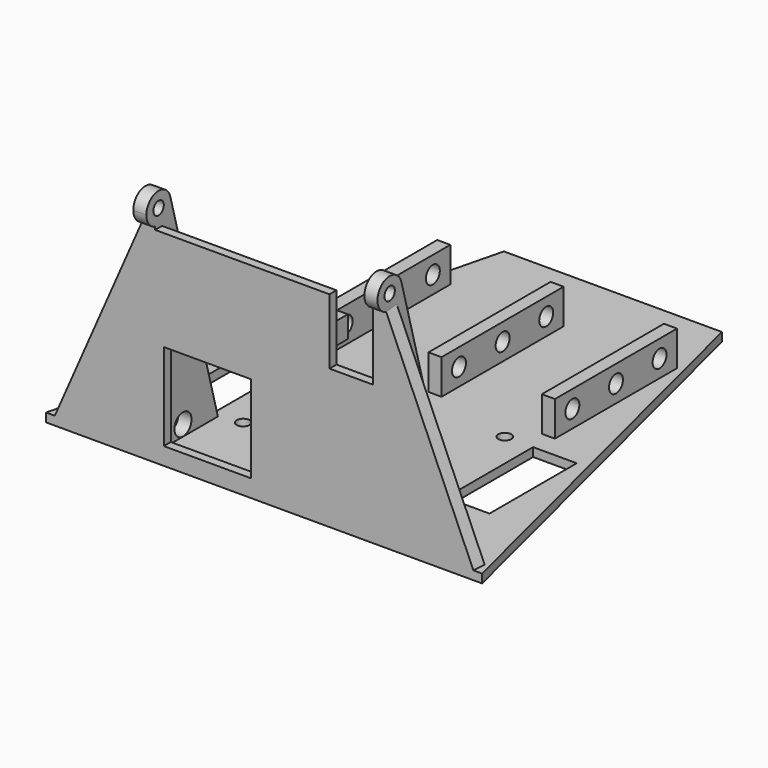
from build123d import *

# Parameters (mm, degrees)
F0_W      = 50
F0_H      = 100
F1_DEPTH  = 2
F2_W      = 2
F2_H      = 47
F3_DEPTH  = 28
F5_DEPTH  = 3
F7_DEPTH  = 3
F8_R      = 1.5
F9_DEPTH  = 60
F10_W     = 5
F10_H     = 5
F11_DEPTH = 12
F12_R     = 1
F13_DEPTH = 25
F14_R     = 1
F15_DEPTH = 25
F16_W     = 10
F16_H     = 15
F16_W_2   = 20
F16_H_2   = 20
F17_DEPTH = 25
F18_R     = 1.5
F18_W     = 10
F18_H     = 25
F19_DEPTH = 25
F20_W     = 3
F20_H     = 35
F21_DEPTH = 8
F22_R     = 2
F23_DEPTH = 100
F25_DEPTH = 3
F25_TAPER = -3
F27_DEPTH = 3
F28_R     = 2.45
F29_DEPTH = 3


with BuildPart() as f1:
    # F0 (on Top) → F1 (new body)
    with BuildSketch(Plane.XY):
        Polygon((25, 50), (25, -50), (50, -50), align=None)
        Polygon((-50, -50), (-25, -50), (-25, 50), align=None)
        Rectangle(F0_W, F0_H)
    extrude(amount=F1_DEPTH)

    # F2 (on Right) → F3 (join, symmetric)
    with BuildSketch(Plane.YZ):
        with Locations((-49, 23.5)):
            Rectangle(F2_W, F2_H)
    extrude(amount=F3_DEPTH, both=True)

    # F4 (on face) → F5 (join)
    with BuildSketch(Plane.YZ.offset(28)):
        with BuildLine():
            ThreePointArc((-48, 47.6458980338), (-49, 47.5), (-50, 47.6458980338))
            Line((-50, 47.6458980338), (-50, 47))
            Line((-50, 47), (-48, 47))
            Line((-48, 47), (-48, 47.6458980338))
        make_face()
        with BuildLine():
            ThreePointArc((-48, 47.6458980338), (-46.1937569599, 48.9083499337), (-45.5, 51))
            ThreePointArc((-45.5, 51), (-51.0916500663, 53.8062430401), (-50, 47.6458980338))
            ThreePointArc((-50, 47.6458980338), (-49, 47.5), (-48, 47.6458980338))
        make_face()
    extrude(amount=-F5_DEPTH)

    # F6 (on face) → F7 (join)
    with BuildSketch(Plane(origin=(-28, 0, 0), x_dir=(0, -1, 0), z_dir=(-1, 0, 0))):
        with BuildLine():
            ThreePointArc((50, 47.6458980338), (49, 47.5), (48, 47.6458980338))
            Line((48, 47.6458980338), (48, 47))
            Line((48, 47), (50, 47))
            Line((50, 47), (50, 47.6458980338))
        make_face()
        with BuildLine():
            ThreePointArc((50, 47.6458980338), (51.8062430401, 48.9083499337), (52.5, 51))
            ThreePointArc((52.5, 51), (46.9083499337, 53.8062430401), (48, 47.6458980338))
            ThreePointArc((48, 47.6458980338), (49, 47.5), (50, 47.6458980338))
        make_face()
    extrude(amount=-F7_DEPTH)

    # F8 (on face) → F9 (cut)
    with BuildSketch(Plane(origin=(-28, 0, 0), x_dir=(0, -1, 0), z_dir=(-1, 0, 0))):
        with Locations((49, 51)):
            Circle(F8_R)
    extrude(amount=-F9_DEPTH, mode=Mode.SUBTRACT)

    # F10 (on face) → F11 (join)
    with BuildSketch(Plane(origin=(0, -48, 0), x_dir=(-1, 0, 0), z_dir=(0, 1, 0))):
        with Locations((-5.5, 32.5)):
            Rectangle(F10_W, F10_H)
        with Locations((-5.5, 4.5)):
            Rectangle(F10_W, F10_H)
    extrude(amount=F11_DEPTH)

    # F12 (on face) → F13 (cut)
    with BuildSketch(Plane(origin=(3, 0, 0), x_dir=(0, -1, 0), z_dir=(-1, 0, 0))):
        with Locations((42, 4.5)):
            Circle(F12_R)
    extrude(amount=-F13_DEPTH, mode=Mode.SUBTRACT)

    # F14 (on face) → F15 (cut)
    with BuildSketch(Plane(origin=(3, 0, 0), x_dir=(0, -1, 0), z_dir=(-1, 0, 0))):
        with Locations((42, 32.5)):
            Circle(F14_R)
    extrude(amount=-F15_DEPTH, mode=Mode.SUBTRACT)

    # F16 (on face) → F17 (cut)
    with BuildSketch(Plane.XZ.offset(50)):
        with Locations((20, 39.5)):
            Rectangle(F16_W, F16_H)
        with Locations((-13, 14)):
            Rectangle(F16_W_2, F16_H_2)
    extrude(amount=-F17_DEPTH, mode=Mode.SUBTRACT)

    # F18 (on face) → F19 (cut)
    with BuildSketch(Plane.XY.offset(2)):
        with Locations((-20, -31)):
            Circle(F18_R)
        with Locations((-20, -6)):
            Circle(F18_R)
        with Locations((20, -31)):
            Circle(F18_R)
        with Locations((20, -6)):
            Circle(F18_R)
        with Locations((-31.5, -18.5)):
            Rectangle(F18_W, F18_H)
        with Locations((31.5, -18.5)):
            Rectangle(F18_W, F18_H)
    extrude(amount=-F19_DEPTH, mode=Mode.SUBTRACT)

    # F20 (on face) → F21 (join)
    with BuildSketch(Plane.XY.offset(2)):
        with Locations((-26, 16.5)):
            Rectangle(F20_W, F20_H)
        with Locations((0, 16.5)):
            Rectangle(F20_W, F20_H)
        with Locations((26, 16.5)):
            Rectangle(F20_W, F20_H)
    extrude(amount=F21_DEPTH)

    # F22 (on face) → F23 (cut)
    with BuildSketch(Plane(origin=(-27.5, 0, 0), x_dir=(0, -1, 0), z_dir=(-1, 0, 0))):
        with Locations((-29, 6)):
            Circle(F22_R)
        with Locations((-16.5, 6)):
            Circle(F22_R)
        with Locations((-4, 6)):
            Circle(F22_R)
    extrude(amount=-F23_DEPTH, mode=Mode.SUBTRACT)



with BuildPart() as f25:
    # F24 (on face) → F25 (new body)
    with BuildSketch(Plane.XZ.offset(50)):
        Polygon((48, 2), (28, 47.6458980338), (28, 2), align=None)
    extrude(amount=-F25_DEPTH, taper=F25_TAPER)


with BuildPart() as f25b:
    # F24 (on face) → F25, piece 2 (new body)
    with BuildSketch(Plane.XZ.offset(50)):
        Polygon((-28, 47.6458980338), (-48, 2), (-28, 2), align=None)
    extrude(amount=-F25_DEPTH, taper=F25_TAPER)


with BuildPart() as f1_1:
    add(f1.part)

    add(f25.part)  # F27 merges F25
    # F26 (on face) → F27 (join)
    with BuildSketch(Plane.YZ.offset(28)):
        with BuildLine():
            Line((-48, 2), (-32, 2))
            Line((-32, 2), (-45.6234731707, 51.9214480836))
            ThreePointArc((-45.6234731707, 51.9214480836), (-45.9408205628, 49.29958206), (-48, 47.6458980338))
            Line((-48, 47.6458980338), (-48, 2))
        make_face()
    extrude(amount=-F27_DEPTH)


    add(f25b.part)  # F29 merges F25b
    # F28 (on face) → F29 (join)
    with BuildSketch(Plane(origin=(-28, 0, 0), x_dir=(0, -1, 0), z_dir=(-1, 0, 0))):
        with BuildLine():
            Line((45.6234731707, 51.9214480836), (41.6528343038, 37.371557643))
            Line((41.6528343038, 37.371557643), (44.0563623479, 33.8951915058))
            ThreePointArc((44.0563623479, 33.8951915058), (44.3865148093, 33.2181203826), (44.5, 32.4734412134))
            ThreePointArc((44.5, 32.4734412134), (42.7353250903, 30.0840276846), (39.9325623907, 31.0678446383))
            Line((39.9325623907, 31.0678446383), (32, 2))
            Line((32, 2), (48, 2))
            Line((48, 2), (48, 47.6458980338))
            ThreePointArc((48, 47.6458980338), (45.9408205628, 49.29958206), (45.6234731707, 51.9214480836))
        make_face()
        with Locations((42, 4.5)):
            Circle(F28_R, mode=Mode.SUBTRACT)
    extrude(amount=-F29_DEPTH)


solid = f1_1.part
